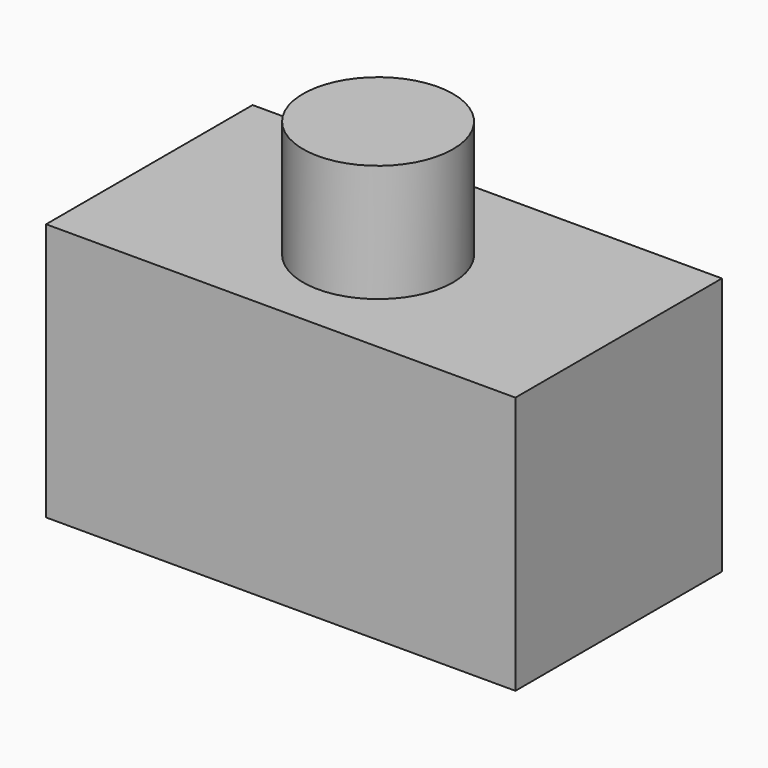
from build123d import *

# Parameters (mm, degrees)
F0_W     = 100
F0_H     = 80
F1_DEPTH = 55
F2_W     = 100
F2_H     = 55
F2_R     = 15.975408
F3_DEPTH = 25


with BuildPart() as f1:
    # F0 (on Front) → F1 (new body)
    with BuildSketch(Plane.XZ):
        Rectangle(F0_W, F0_H)
    extrude(amount=F1_DEPTH)

    # F2 (on face) → F3 (cut)
    with BuildSketch(Plane.XY.offset(40)):
        with Locations((0, -27.5)):
            Rectangle(F2_W, F2_H)
        with Locations((0, -29.085798)):
            Circle(F2_R, mode=Mode.SUBTRACT)
    extrude(amount=-F3_DEPTH, mode=Mode.SUBTRACT)


solid = f1.part
